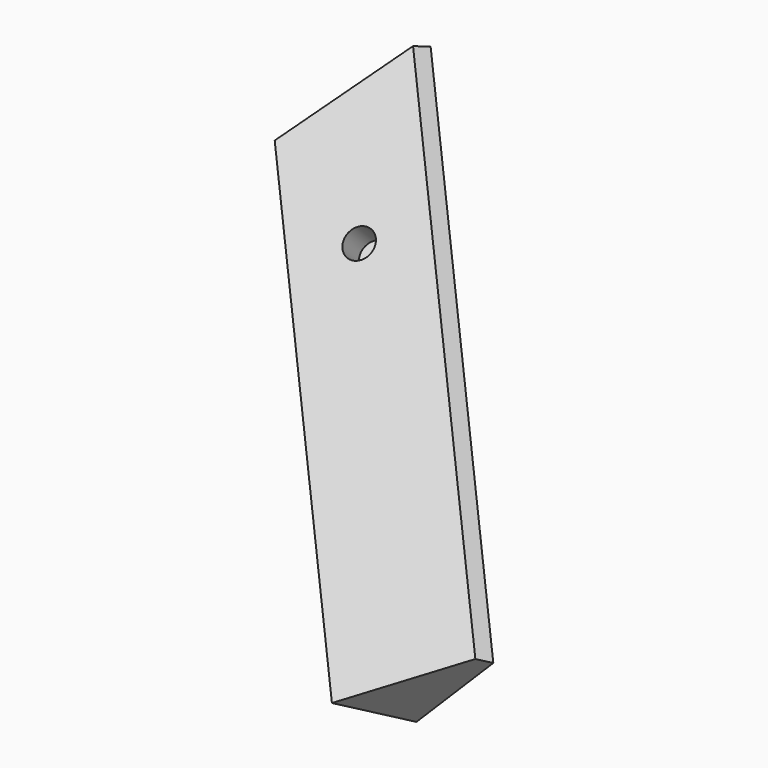
from build123d import *

# Parameters (mm, degrees)
PAD001_DEPTH            = 150
SKETCH001_R             = 7.5
PAD_DEPTH               = 15
SKETCH003_R             = 7.5
POCKET003_DEPTH         = 15
POCKET004_DEPTH         = 50
BODY003_PLACEMENT_ANGLE = 90


with BuildPart() as part:
    # Sketch002 (on DatumPlane) → Pad001 (new body, symmetric)
    with BuildSketch(Plane(origin=(0, -50, 50), x_dir=(0.8164965809, -0.4082482905, -0.4082482905), z_dir=(-0.5773502692, -0.5773502692, -0.5773502692))):
        Polygon((0, 0), (0, 55.7106781187), (-8.6602540378, 55.7106781187), (-40.8248290464, 0), align=None)
    extrude(amount=PAD001_DEPTH, both=True)

    # Sketch001 (on Face7 of Binder001) → Pad (join)
    with BuildSketch(Plane(origin=(0, -50, 50), x_dir=(1, 0, 0), z_dir=(0, -0.7071067812, 0.7071067812))):
        with Locations((32.1969593942, 80.8887157017)):
            Circle(SKETCH001_R)
    extrude(amount=-PAD_DEPTH)

    # Sketch003 (on Face6 of Pad) → Pocket003 (cut)
    with BuildSketch(Plane(origin=(-25, -50, 75), x_dir=(-0.4082482905, 0.8164965809, -0.4082482905), z_dir=(-0.7071067812, 0, 0.7071067812))):
        with Locations((-11.7521604853, -47.4562863756)):
            Circle(SKETCH003_R)
    extrude(amount=-POCKET003_DEPTH, mode=Mode.SUBTRACT)

    # Sketch005 (on Face6 of Pocket003) → Pocket004 (cut)
    with BuildSketch(Plane(origin=(-25, -50, 75), x_dir=(-0.4082482905, 0.8164965809, -0.4082482905), z_dir=(-0.7071067812, 0, 0.7071067812))):
        Polygon((20.4124145232, -103.8675134595), (-48.2468625128, -128.1422336512), (-48.2468625128, -150), (20.4124145232, -150), align=None)
    extrude(amount=-POCKET004_DEPTH, mode=Mode.SUBTRACT)


with BuildPart() as part_1:
    # Body003 placement: moved
    add(part.part.rotate(Axis((0, 0, 0), (0, 0, 1)), BODY003_PLACEMENT_ANGLE))


solid = part_1.part
